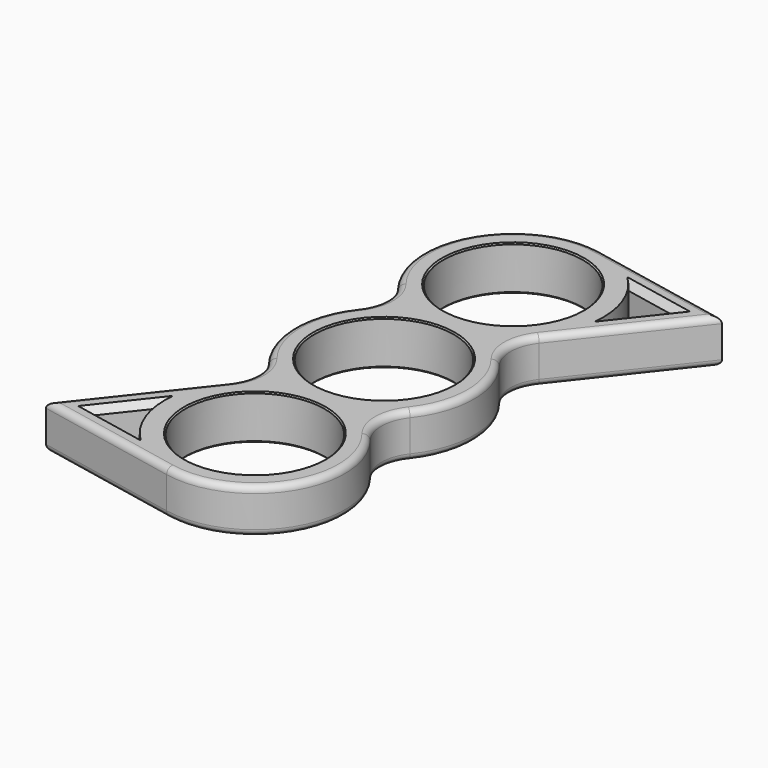
from build123d import *

# Parameters (mm, degrees)
F0_R     = 10.9855
F1_DEPTH = 7
F2_SIZE  = 0.2
F3_SIZE  = 1
F4_R     = 1


with BuildPart() as f1:
    # F0 (on Top) → F1 (new body)
    with BuildSketch(Plane.XY):
        with BuildLine():
            ThreePointArc((-11.119352, 16.631889), (-9.755608, 12.7), (-11.119352, 8.768111))
            ThreePointArc((-11.119352, 8.768111), (-14.1605, 0), (-11.119352, -8.768111))
            ThreePointArc((-11.119352, -8.768111), (-9.755608, -12.7), (-11.119352, -16.631889))
            Line((-11.119352, -16.631889), (-25.4, -34.742009))
            Line((-25.4, -34.742009), (-2.788271, -39.283274))
            ThreePointArc((-2.788271, -39.283274), (12.067437, -32.809232), (11.119352, -16.631889))
            ThreePointArc((11.119352, -16.631889), (9.755608, -12.7), (11.119352, -8.768111))
            ThreePointArc((11.119352, -8.768111), (14.1605, 0), (11.119352, 8.768111))
            ThreePointArc((11.119352, 8.768111), (9.755608, 12.7), (11.119352, 16.631889))
            Line((11.119352, 16.631889), (25.4, 34.742009))
            Line((25.4, 34.742009), (2.788271, 39.283274))
            ThreePointArc((2.788271, 39.283274), (-12.067437, 32.809232), (-11.119352, 16.631889))
        make_face()
        with BuildLine():
            Line((-19.704933, -32.647388), (-14.158881, -25.614117))
            ThreePointArc((-14.158881, -25.614117), (-13.290102, -30.288041), (-10.923412, -34.41104))
            Line((-10.923412, -34.41104), (-19.704933, -32.647388))
        make_face(mode=Mode.SUBTRACT)
        with Locations((0, -25.4)):
            Circle(F0_R, mode=Mode.SUBTRACT)
        Circle(F0_R, mode=Mode.SUBTRACT)
        with Locations((0, 25.4)):
            Circle(F0_R, mode=Mode.SUBTRACT)
        with BuildLine():
            Line((19.704933, 32.647388), (14.158881, 25.614117))
            ThreePointArc((14.158881, 25.614117), (13.290102, 30.288041), (10.923412, 34.41104))
            Line((10.923412, 34.41104), (19.704933, 32.647388))
        make_face(mode=Mode.SUBTRACT)
    extrude(amount=F1_DEPTH)

    # F2
    f2_edges = [f1.edges().sort_by_distance(p)[0] for p in [
        (-10.9855, 25.4, 7),
        (-10.9855, 0, 7),
        (-10.9855, -25.4, 7),
        (-10.9855, 25.4, 0),
        (-10.9855, 0, 0),
        (-10.9855, -25.4, 0),
    ]]
    chamfer(f2_edges, length=F2_SIZE)

    # F3
    f3_edges = [f1.edges().sort_by_distance(p)[0] for p in [
        (15.314172, 33.529214, 7),
        (16.931907, 29.130753, 7),
        (15.314172, 33.529214, 0),
        (16.931907, 29.130753, 0),
        (-16.931907, -29.130753, 7),
        (-15.314172, -33.529214, 7),
        (-16.931907, -29.130753, 0),
        (-15.314172, -33.529214, 0),
    ]]
    chamfer(f3_edges, length=F3_SIZE)

    # F4
    f4_edges = [f1.edges().sort_by_distance(p)[0] for p in [
        (-14.1605, 0, 0),
        (12.067437, -32.809232, 0),
        (-12.067437, 32.809232, 7),
        (18.259676, 25.686949, 7),
    ]]
    fillet(f4_edges, radius=F4_R)


solid = f1.part
